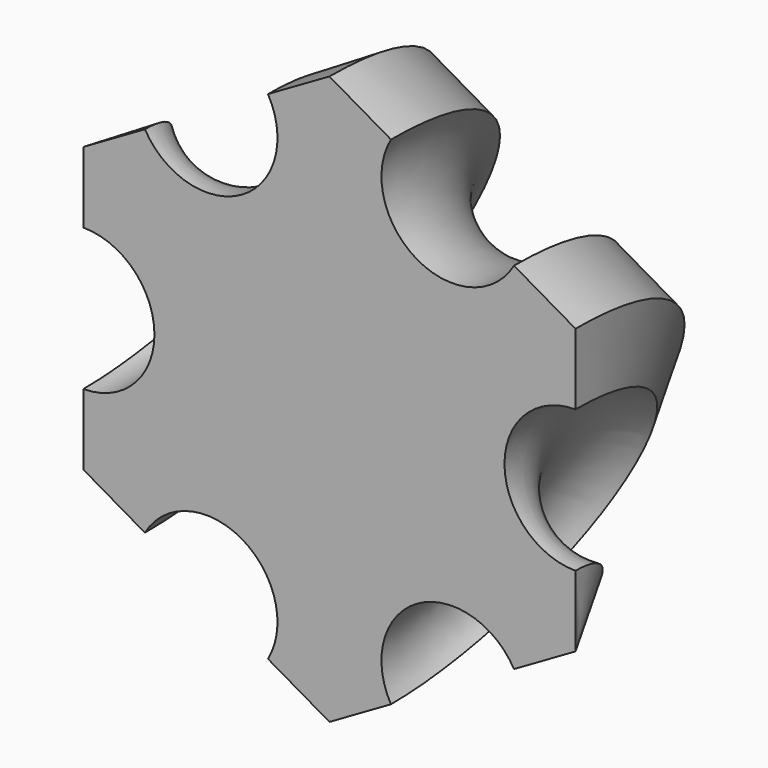
from build123d import *

# Parameters (mm, degrees)
REVOLUTION_ANGLE    = -180
BODY001_ROLL_ANGLE  = -180
BODY001_PITCH_ANGLE = -60


with BuildPart() as part:
    # Sketch → Revolution (revolve)
    with BuildSketch(Plane.XZ):
        with BuildLine():
            Line((43.30127, -25), (43.30127, -12.5))
            ThreePointArc((43.30127, 12.5), (30.80127, 0), (43.30127, -12.5))
            Line((43.30127, 12.5), (43.30127, 25))
            Line((43.30127, 25), (32.475953, 31.25))
            ThreePointArc((10.825318, 43.75), (15.400635, 26.674682), (32.475953, 31.25))
            Line((10.825318, 43.75), (0, 50))
            Line((0, 50), (0, -50))
            Line((0, -50), (10.825318, -43.75))
            ThreePointArc((32.475953, -31.25), (15.400635, -26.674682), (10.825318, -43.75))
            Line((32.475953, -31.25), (43.30127, -25))
        make_face()
    revolve(axis=Axis((0, 0, 0), (0, 0, 1)), revolution_arc=REVOLUTION_ANGLE)


with BuildPart() as part_1:
    # Body001 roll: moved
    add(part.part.rotate(Axis((0, 0, 0), (1, 0, 0)), BODY001_ROLL_ANGLE))


with BuildPart() as part_2:
    # Body001 pitch: moved
    add(part_1.part.rotate(Axis((0, 0, 0), (0, 1, 0)), BODY001_PITCH_ANGLE))


with BuildPart() as part_3:
    # Body001 placement: moved
    add(part_2.part)


solid = part_3.part
